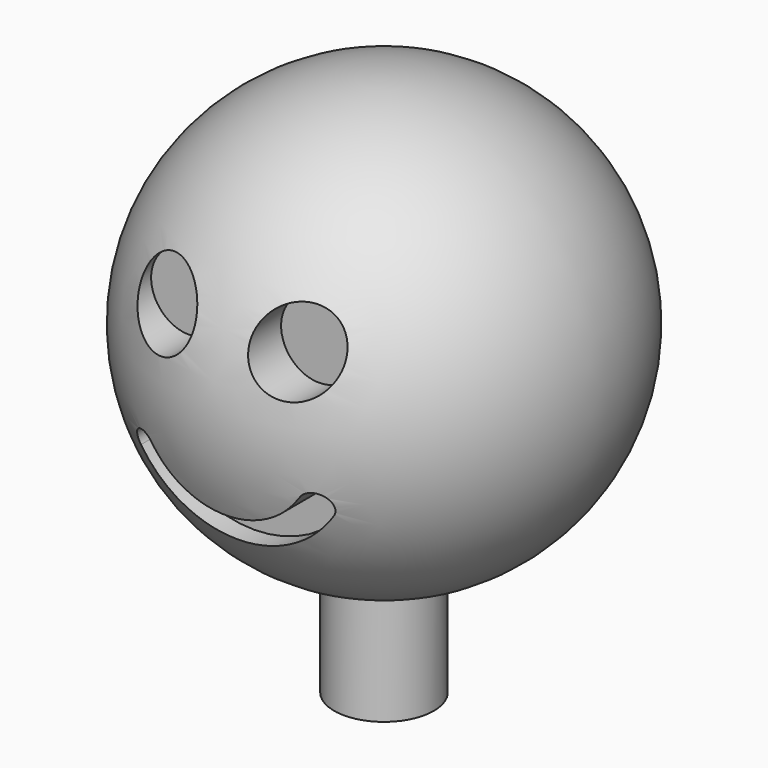
from build123d import *

# Parameters (mm, degrees)
F2_R     = 2.921
F3_DEPTH = 19.05
F5_R     = 2.2225
F6_DEPTH = 3.175


with BuildPart() as f1:
    # F0 (on Front) → F1 (revolve)
    with BuildSketch(Plane.XZ):
        with BuildLine():
            Line((0, 0), (0, -12.7))
            ThreePointArc((0, -12.7), (12.7, 0), (0, 12.7))
            Line((0, 12.7), (0, 0))
        make_face()
    revolve(axis=Axis((0, 0, 6.35), (0, 0, 1)))

    # F2 (on Top) → F3 (join)
    with BuildSketch(Plane.XY):
        Circle(F2_R)
    extrude(amount=-F3_DEPTH)

    # F5 (on offset) → F6 (cut)
    with BuildSketch(Plane.XZ.offset(12.7)):
        with Locations((-3.81, 4.271358)):
            Circle(F5_R)
        with Locations((3.81, 4.271358)):
            Circle(F5_R)
        with BuildLine():
            ThreePointArc((-4.331955, -2.855323), (-5.431521, -2.629416), (-5.657427, -3.728982))
            ThreePointArc((-5.657427, -3.728982), (0, -6.775824), (5.657427, -3.728982))
            ThreePointArc((5.657427, -3.728982), (5.431521, -2.629416), (4.331955, -2.855323))
            ThreePointArc((4.331955, -2.855323), (0, -5.188324), (-4.331955, -2.855323))
        make_face()
    extrude(amount=-F6_DEPTH, mode=Mode.SUBTRACT)


solid = f1.part
